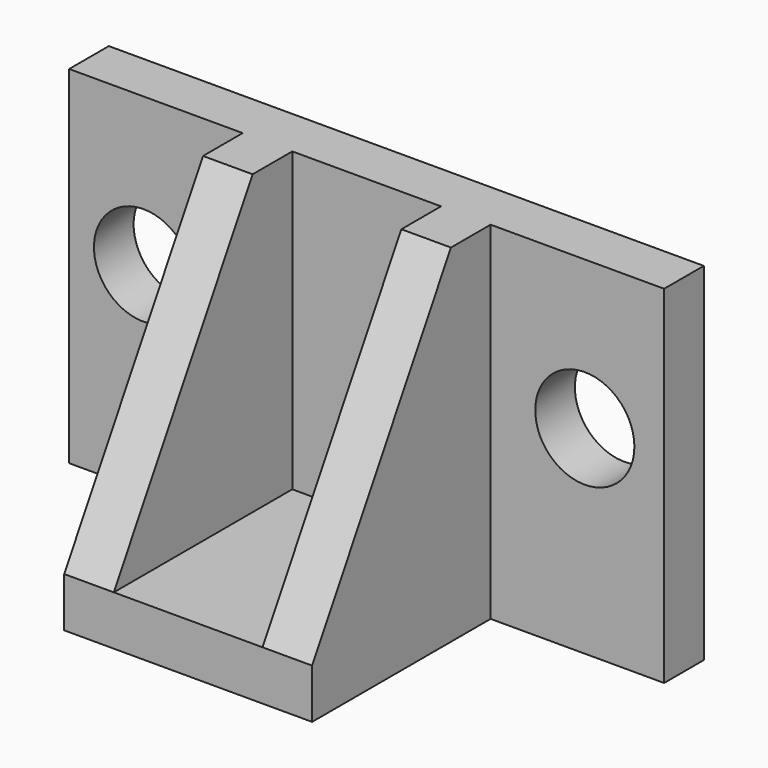
from build123d import *

# Parameters (mm, degrees)
F0_W     = 120
F0_H     = 70
F1_DEPTH = 10
F2_R     = 10
F3_DEPTH = 10.001
F4_DEPTH = 45
F6_DEPTH = 50


with BuildPart() as f1:
    # F0 (on Front) → F1 (new body)
    with BuildSketch(Plane.XZ):
        Rectangle(F0_W, F0_H)
    extrude(amount=F1_DEPTH)

    # F2 (on face) → F3 (cut, through all)
    with BuildSketch(Plane.XZ.offset(10)):
        with Locations((-45, 5)):
            Circle(F2_R)
        with Locations((44, 5)):
            Circle(F2_R)
    extrude(amount=-F3_DEPTH, mode=Mode.SUBTRACT)

    # F2 (on face) → F4 (join)
    with BuildSketch(Plane.XZ.offset(10)):
        Polygon((-15, 35), (-25, 35), (-25, -25), (-25, -35), (-15, -35), (15, -35), (25, -35), (25, -25), (25, 35), (15, 35), (15, -25), (-15, -25), align=None)
    extrude(amount=F4_DEPTH)

    # F5 (on face) → F6 (cut, through all)
    with BuildSketch(Plane.YZ.offset(25)):
        Polygon((-55, -25), (-20, 35), (-55, 35), align=None)
    extrude(amount=-F6_DEPTH, mode=Mode.SUBTRACT)


solid = f1.part
